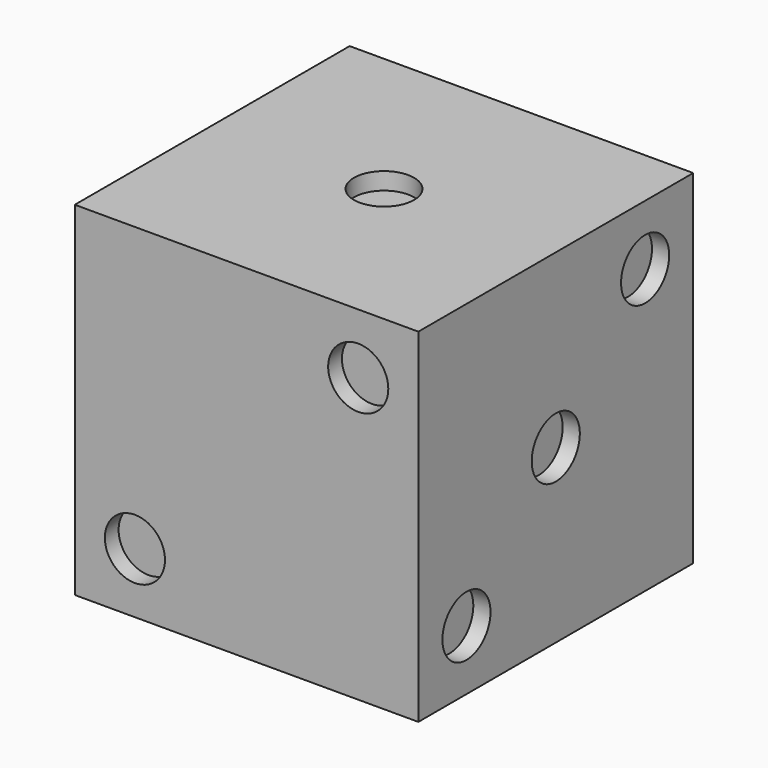
from build123d import *

# Parameters (mm, degrees)
F0_W      = 127
F0_H      = 127
F1_DEPTH  = 127
F2_R      = 11.1125
F3_DEPTH  = 6.35
F4_R      = 11.1125
F5_DEPTH  = 6.35
F6_R      = 11.1125
F7_DEPTH  = 6.35
F9_R      = 11.1125
F10_DEPTH = 6.35
F12_DEPTH = 6.35
F8_R      = 11.1125
F13_DEPTH = 6.35


with BuildPart() as f1:
    # F0 (on Top) → F1 (new body)
    with BuildSketch(Plane.XY):
        with Locations((63.5, 63.5)):
            Rectangle(F0_W, F0_H)
    extrude(amount=F1_DEPTH)

    # F2 (on face) → F3 (cut)
    with BuildSketch(Plane.XY.offset(127)):
        with Locations((63.5, 63.5)):
            Circle(F2_R)
    extrude(amount=-F3_DEPTH, mode=Mode.SUBTRACT)

    # F4 (on face) → F5 (cut)
    with BuildSketch(Plane.XZ):
        with Locations((22.225, 22.225)):
            Circle(F4_R)
        with Locations((104.775, 104.775)):
            Circle(F4_R)
    extrude(amount=-F5_DEPTH, mode=Mode.SUBTRACT)

    # F6 (on face) → F7 (cut)
    with BuildSketch(Plane.YZ.offset(127)):
        with Locations((22.225, 22.225)):
            Circle(F6_R)
        with Locations((63.5, 63.5)):
            Circle(F6_R)
        with Locations((104.775, 104.775)):
            Circle(F6_R)
    extrude(amount=-F7_DEPTH, mode=Mode.SUBTRACT)

    # F9 (on face) → F10 (cut)
    with BuildSketch(Plane(origin=(0, 0, 0), x_dir=(0, -1, 0), z_dir=(-1, 0, 0))):
        with Locations((-104.775, 104.775)):
            Circle(F9_R)
        with Locations((-22.225, 104.775)):
            Circle(F9_R)
        with Locations((-104.775, 22.225)):
            Circle(F9_R)
        with Locations((-22.225, 22.225)):
            Circle(F9_R)
    extrude(amount=-F10_DEPTH, mode=Mode.SUBTRACT)

    # F11 (on face) → F12 (cut)
    with BuildSketch(Plane(origin=(0, 0, 0), x_dir=(1, 0, 0), z_dir=(0, 0, -1))):
        with BuildLine():
            ThreePointArc((33.3375, -22.225), (30.082724, -14.367276), (22.225, -11.1125))
            Line((22.225, -11.1125), (22.225, -33.3375))
            ThreePointArc((22.225, -33.3375), (30.082724, -30.082724), (33.3375, -22.225))
        make_face()
        with BuildLine():
            ThreePointArc((33.3375, -98.425), (30.082724, -90.567276), (22.225, -87.3125))
            Line((22.225, -87.3125), (22.225, -109.5375))
            ThreePointArc((22.225, -109.5375), (30.082724, -106.282724), (33.3375, -98.425))
        make_face()
        with BuildLine():
            Line((22.225, -109.5375), (22.225, -87.3125))
            ThreePointArc((22.225, -87.3125), (11.1125, -98.425), (22.225, -109.5375))
        make_face()
        with BuildLine():
            ThreePointArc((33.3375, -62.355265), (30.082724, -54.497541), (22.225, -51.242765))
            Line((22.225, -51.242765), (22.225, -73.467765))
            ThreePointArc((22.225, -73.467765), (30.082724, -70.212989), (33.3375, -62.355265))
        make_face()
        with BuildLine():
            Line((22.225, -73.467765), (22.225, -51.242765))
            ThreePointArc((22.225, -51.242765), (11.1125, -62.355265), (22.225, -73.467765))
        make_face()
        with BuildLine():
            Line((22.225, -33.3375), (22.225, -11.1125))
            ThreePointArc((22.225, -11.1125), (11.1125, -22.225), (22.225, -33.3375))
        make_face()
        with BuildLine():
            ThreePointArc((115.8875, -22.225), (112.632724, -14.367276), (104.775, -11.1125))
            Line((104.775, -11.1125), (104.775, -33.3375))
            ThreePointArc((104.775, -33.3375), (112.632724, -30.082724), (115.8875, -22.225))
        make_face()
        with BuildLine():
            ThreePointArc((115.8875, -98.425), (112.632724, -90.567276), (104.775, -87.3125))
            Line((104.775, -87.3125), (104.775, -109.5375))
            ThreePointArc((104.775, -109.5375), (112.632724, -106.282724), (115.8875, -98.425))
        make_face()
        with BuildLine():
            Line((104.775, -109.5375), (104.775, -87.3125))
            ThreePointArc((104.775, -87.3125), (93.6625, -98.425), (104.775, -109.5375))
        make_face()
        with BuildLine():
            ThreePointArc((115.8875, -60.325), (112.632724, -52.467276), (104.775, -49.2125))
            Line((104.775, -49.2125), (104.775, -71.4375))
            ThreePointArc((104.775, -71.4375), (112.632724, -68.182724), (115.8875, -60.325))
        make_face()
        with BuildLine():
            Line((104.775, -71.4375), (104.775, -49.2125))
            ThreePointArc((104.775, -49.2125), (93.6625, -60.325), (104.775, -71.4375))
        make_face()
        with BuildLine():
            Line((104.775, -33.3375), (104.775, -11.1125))
            ThreePointArc((104.775, -11.1125), (93.6625, -22.225), (104.775, -33.3375))
        make_face()
    extrude(amount=-F12_DEPTH, mode=Mode.SUBTRACT)

    # F8 (on face) → F13 (cut)
    with BuildSketch(Plane(origin=(0, 127, 0), x_dir=(-1, 0, 0), z_dir=(0, 1, 0))):
        with Locations((-63.5, 63.5)):
            Circle(F8_R)
        with Locations((-104.775, 104.775)):
            Circle(F8_R)
        with Locations((-22.225, 104.775)):
            Circle(F8_R)
        with Locations((-104.775, 22.225)):
            Circle(F8_R)
        with Locations((-22.225, 22.225)):
            Circle(F8_R)
    extrude(amount=-F13_DEPTH, mode=Mode.SUBTRACT)


solid = f1.part
